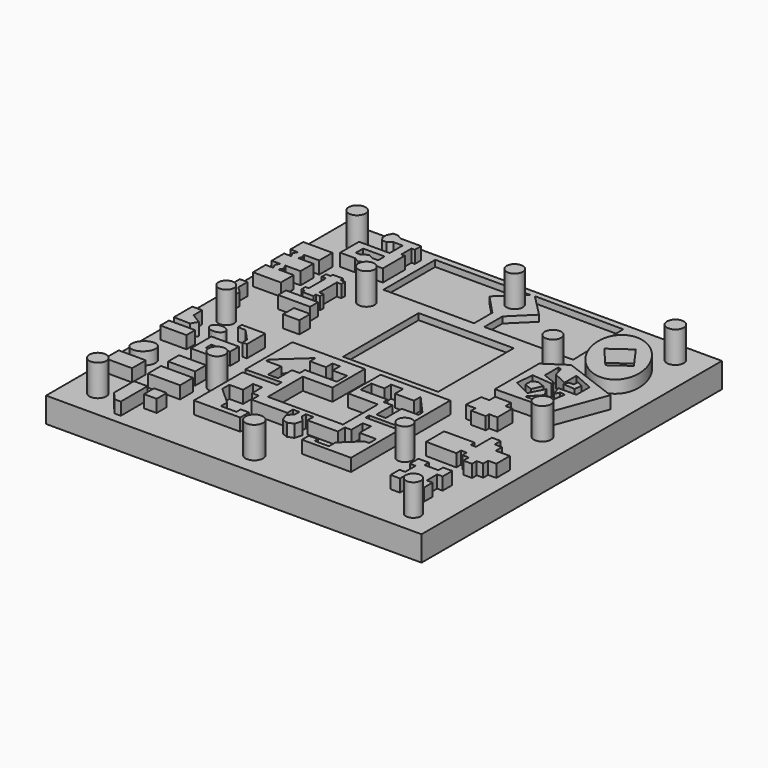
from build123d import *

# Parameters (mm, degrees)
F1_W      = 76.2
F1_H      = 76.2
F2_DEPTH  = 5.08
F3_R      = 1.645502
F3_R_2    = 1.645501
F3_R_3    = 1.581129
F3_R_4    = 1.722588
F3_R_5    = 1.672331
F3_R_6    = 1.716297
F3_R_7    = 1.736505
F3_R_8    = 1.523014
F3_R_9    = 1.778929
F3_R_10   = 1.681341
F3_R_11   = 1.715423
F3_R_12   = 1.523278
F4_DEPTH  = 6.35
F5_W      = 19.294421
F5_H      = 19.184167
F6_DEPTH  = 1.27
F8_DEPTH  = 2.54
F9_W      = 2.558722
F9_H      = 2.558721
F9_W_2    = 6.488184
F9_H_2    = 3.289784
F9_W_3    = 5.482968
F9_H_3    = 3.47255
F9_W_4    = 5.482972
F9_H_4    = 2.741486
F9_W_5    = 5.300205
F9_H_5    = 2.193189
F9_W_6    = 6.488182
F9_H_6    = 2.010423
F9_W_7    = 3.289783
F9_H_7    = 2.741487
F10_DEPTH = 2.54
F11_DEPTH = 2.54


with BuildPart() as f2:
    # F1 (on Top) → F2 (new body)
    with BuildSketch(Plane.XY):
        with Locations((-1.072027, 2.019377)):
            Rectangle(F1_W, F1_H)
    extrude(amount=-F2_DEPTH)

    # F3 (on face) → F4 (join)
    with BuildSketch(Plane.XY):
        with Locations((-0.735678, 34.744594)):
            Circle(F3_R)
        with Locations((-19.598031, 20.705491)):
            Circle(F3_R_2)
        with Locations((-32.948099, 1.843139)):
            Circle(F3_R_3)
        with Locations((-32.775838, 34.830723)):
            Circle(F3_R_4)
        with Locations((18.126678, 20.877751)):
            Circle(F3_R_5)
        with Locations((31.093566, 35.743695)):
            Circle(F3_R_6)
        with Locations((31.042574, 2.075319)):
            Circle(F3_R_7)
        with Locations((18.543921, -17.198307)):
            Circle(F3_R_8)
        with Locations((-0.612898, -31.452265)):
            Circle(F3_R_9)
        with Locations((-19.852089, -16.866596)):
            Circle(F3_R_10)
        with Locations((-33.257011, -30.340977)):
            Circle(F3_R_11)
        with Locations((31.557404, -31.310048)):
            Circle(F3_R_12)
    extrude(amount=F4_DEPTH)

    # F5 (on face) → F6 (cut)
    with BuildSketch(Plane.XY):
        with Locations((-1.099397, 13.321314)):
            Rectangle(F5_W, F5_H)
        Polygon((-20.118184, 38.826754), (-20.118184, 25.669744), (-1.705794, 25.669744), (-1.705794, 30.300405), (-5.573706, 34.400459), (-0.881755, 38.826754), align=None)
        Polygon((0, 38.952216), (4.489775, 34.400459), (0.33312, 30.300405), (0.33312, 25.693363), (18.37535, 25.693363), (18.042877, 38.826754), align=None)
    extrude(amount=-F6_DEPTH, mode=Mode.SUBTRACT)

    # F7 (on face) → F8 (join)
    with BuildSketch(Plane.XY):
        Polygon((-17.080911, -1.195494), (-17.080911, -13.149373), (-9.789782, -13.039665), (-9.789782, -14.179086), (-16.789086, -14.179086), (-16.789086, -26.549948), (-7.402423, -26.549948), (-7.402423, -24.325363), (-9.084426, -24.325363), (-9.084426, -25.410527), (-12.231399, -25.410527), (-12.231399, -23.837039), (-15.758181, -20.635808), (-15.758181, -18.845288), (-12.991014, -18.845288), (-12.991014, -16.295156), (-11.146236, -16.295156), (-11.146236, -18.845288), (-9.789782, -18.845288), (-9.789782, -20.635808), (-2.574782, -20.635808), (-2.574782, -19.200541), (-1.270327, -19.200541), (-1.270327, -20.198064), (-2.247898, -21.395423), (-1.705316, -22.860393), (-0.541367, -23.305736), (0.647988, -22.845341), (1.070018, -21.310689), (0, -20.159699), (0, -19.162174), (1.530414, -19.162174), (1.495916, -20.631954), (7.681346, -20.631954), (7.681346, -18.845288), (8.983542, -18.845288), (8.983542, -15.969606), (10.665544, -15.969606), (10.665544, -18.845288), (14.035678, -18.845288), (14.035678, -20.631954), (13.123169, -20.631954), (9.746881, -23.82574), (9.746881, -25.468258), (6.826849, -25.468258), (6.826849, -24.646997), (5.001829, -24.646997), (5.001829, -26.380766), (14.948188, -26.380766), (14.948188, -14.153135), (8.104363, -14.153135), (8.104363, -13.240624), (14.948188, -13.240624), (14.948188, -1.195494), (0.804283, -1.195494), (0.804283, -9.408083), (6.826849, -9.408083), (6.826849, -18.259428), (-8.412067, -18.259428), (-8.412067, -9.408083), (-2.389502, -9.408083), (-2.389502, -1.195494), align=None)
        Polygon((-11.146236, -12.280051), (-13.153789, -12.280051), (-13.262304, -8.807529), (-16.300762, -8.807529), (-16.300762, -8.210689), (-10.820687, -3.16468), (-10.820687, -4.575392), (-7.565198, -4.575392), (-7.565198, -2.947646), (-6.045969, -2.947646), (-6.045969, -4.792424), (-3.116028, -4.792424), (-3.116028, -7.396817), (-9.572749, -7.396817), (-9.572749, -8.753271), (-11.146236, -8.753271), align=None, mode=Mode.SUBTRACT)
        Polygon((8.820768, -12.280051), (8.820768, -8.210689), (7.03025, -8.210689), (7.03025, -7.179783), (1.550174, -7.179783), (1.550174, -4.466875), (4.208825, -4.466875), (4.208825, -2.784872), (6.650442, -2.784872), (6.650442, -4.846682), (10.502771, -4.846682), (10.502771, -3.16468), (14.083811, -7.179783), (14.083811, -8.210689), (10.719804, -8.210689), (10.719804, -12.280051), align=None, mode=Mode.SUBTRACT)
    extrude(amount=F8_DEPTH)

    # F9 (on face) → F10 (join)
    with BuildSketch(Plane.XY):
        with Locations((-23.032316, -28.52715)):
            Rectangle(F9_W, F9_H)
        with Locations((-24.997047, -22.221734)):
            Rectangle(F9_W_2, F9_H_2)
        with Locations((-34.089642, -22.313117)):
            Rectangle(F9_W_3, F9_H_3)
        with Locations((-25.591036, -17.287061)):
            Rectangle(F9_W_4, F9_H_4)
        with Locations((-34.363789, -8.697071)):
            Rectangle(F9_W_5, F9_H_5)
        with Locations((-25.72811, 11.041625)):
            Rectangle(F9_W_6, F9_H_6)
        with Locations((-22.575401, 6.746631)):
            Rectangle(F9_W_7, F9_H_7)
        Polygon((-28.332522, -27.339173), (-28.332522, -32.365233), (-26.870396, -34.101505), (-25.591036, -34.101505), (-25.591036, -27.339173), align=None)
        Polygon((-22.758167, -7.69186), (-28.332522, -7.69186), (-28.332522, -12.900683), (-22.758167, -12.900683), (-22.758167, -11.255791), (-26.596248, -11.255791), (-26.596248, -9.885048), (-22.758167, -9.885048), align=None)
        Polygon((-22.301253, -1.569209), (-27.053162, -1.569209), (-27.053162, -2.57442), (-25.499653, -2.57442), (-23.215082, -5.041758), (-23.215082, -6.229735), (-22.301253, -6.229735), align=None)
        Polygon((-37.105277, 10.493329), (-37.105277, 5.375888), (-35.369001, 5.193123), (-34.363791, 6.106951), (-34.363791, 7.02078), (-35.551768, 8.117375), (-35.551768, 10.493329), align=None)
        Polygon((-37.105277, -1.569209), (-37.105277, -6.229735), (-33.767723, -6.314437), (-32.993048, -5.041758), (-35.094853, -3.762397), (-35.094853, -1.569209), align=None)
        with BuildLine():
            add(Edge.make_bspline(
                [(-27.692841, -4.950374), (-27.692841, -3.047722), (-30.023105, -3.999048), (-32.35337, -4.950374), (-30.023105, -5.9017), (-27.692841, -6.853027), (-27.692841, -4.950374)],
                knots=[0, 0, 0, 2.094395, 2.094395, 4.18879, 4.18879, 6.283185, 6.283185, 6.283185], degree=2, weights=[1, 0.5, 1, 0.5, 1, 0.5, 1]))
        make_face()
        with BuildLine():
            add(Edge.make_bspline(
                [(-32.993048, -15.459402), (-35.072586, -13.257539), (-36.500154, -16.688734), (-37.927721, -20.119928), (-34.420616, -18.890597), (-30.91351, -17.661266), (-32.993048, -15.459402)],
                knots=[0, 0, 0, 2.094395, 2.094395, 4.18879, 4.18879, 6.283185, 6.283185, 6.283185], degree=2, weights=[1, 0.5, 1, 0.5, 1, 0.5, 1]))
        make_face()
        Polygon((-37.226394, 23.506001), (-35.713326, 23.427244), (-36.148015, 22.612195), (-35.658989, 21.742811), (-37.126075, 21.742811), (-37.126075, 18.59129), (-35.387304, 18.59129), (-35.876334, 17.721904), (-35.387304, 16.852519), (-36.963064, 16.852519), (-36.963064, 13.646661), (-31.312063, 13.646661), (-31.312063, 16.906856), (-34.409247, 16.906856), (-33.974554, 17.667567), (-34.409247, 18.645626), (-31.312063, 18.645626), (-31.312063, 21.905821), (-34.409247, 21.905821), (-34.111474, 22.616023), (-34.409247, 23.369081), (-31.304624, 23.369081), (-31.304624, 26.72361), (-37.226394, 26.72361), align=None)
        Polygon((-27.492307, 19.226126), (-26.624169, 19.226126), (-26.624169, 14.88544), (-27.309541, 14.88544), (-27.309541, 13.880229), (-26.601324, 13.880229), (-26.601324, 13.240549), (-24.38529, 13.240549), (-24.38529, 13.880229), (-23.539998, 13.880229), (-23.539998, 14.794057), (-24.408136, 14.794057), (-24.408136, 19.226126), (-23.494307, 19.226126), (-23.494307, 20.185646), (-24.476672, 20.185646), (-24.476672, 20.871017), (-26.532786, 20.871017), (-26.532786, 20.32272), (-27.492307, 20.32272), align=None)
        Polygon((-26.914816, 34.948926), (-26.064267, 35.623498), (-24.157867, 35.623498), (-24.157867, 32.309294), (-30.375669, 32.309294), (-30.375669, 27.528627), (-27.325425, 27.528627), (-26.240243, 26.97137), (-25.096403, 27.528627), (-21.723539, 27.528627), (-21.723539, 33.101186), (-22.427442, 33.101186), (-22.427442, 35.682157), (-21.752868, 35.682157), (-21.752868, 37.295267), (-25.888292, 37.295267), (-26.944146, 37.881851), (-27.882682, 37.881851), (-28.410608, 36.79667), (-28.410608, 35.858136), (-27.853353, 34.948926), align=None)
        Polygon((-27.325425, 29.024418), (-28.410608, 29.024418), (-28.410608, 30.90149), (-24.04055, 30.90149), (-24.04055, 29.229723), (-25.125733, 29.229723), (-26.240243, 29.78698), (-27.325425, 29.229723), align=None, mode=Mode.SUBTRACT)
        Polygon((23.491831, -19.956527), (23.491831, -22.148918), (24.669718, -22.150023), (24.669718, -24.79125), (23.520006, -24.79125), (23.520006, -27.059598), (25.446549, -27.059598), (25.446549, -25.84774), (28.424714, -25.84774), (28.424714, -27.152818), (30.356124, -27.152818), (30.356124, -24.946615), (29.175339, -24.946615), (29.175339, -22.305388), (30.293977, -22.305388), (30.293977, -19.878227), (28.424714, -19.878227), (28.424714, -21.052722), (25.605924, -21.052722), (25.605924, -19.956527), align=None)
        Polygon((20.805748, -10.071781), (20.805748, -14.641981), (27.001884, -14.72987), (27.001884, -13.543376), (28.144434, -13.543376), (28.144434, -14.641981), (29.46276, -14.641981), (29.46276, -16.004251), (31.220529, -16.004251), (31.220529, -14.817758), (32.538857, -14.817758), (32.538857, -13.587319), (34.208737, -13.587319), (34.208737, -10.15967), (31.35236, -10.15967), (31.35236, -8.577678), (29.858258, -8.577678), (29.858258, -7.03963), (28.056545, -7.03963), (28.056545, -11.082498), (27.001884, -11.082498), (27.001884, -10.071781), align=None)
        Polygon((19.721936, 2.74569), (18.04621, 2.76946), (17.766867, -0.768894), (19.724193, -0.768894), (19.724193, -1.844045), (22.700956, -1.886269), (22.700956, -1.024435), (24.379041, -1.048238), (24.379041, 2.749624), (22.980627, 2.76946), (22.980627, 4.21307), (19.721936, 4.259293), align=None)
        Polygon((18.04621, 6.252534), (26.402766, 6.400344), (29.580686, 5.217863), (33.622466, 16.080157), (22.292168, 20.296077), (18.04621, 17.486107), align=None)
        Polygon((21.903963, 18.158667), (22.492524, 16.171899), (25.257885, 14.920902), (25.257885, 17.949631), (29.340087, 16.171899), (29.340087, 12.81396), (25.652938, 12.81396), (26.402766, 10.838701), (26.814218, 11.852651), (27.873209, 11.692803), (27.52869, 9.410373), (25.455412, 7.283237), (23.282627, 7.283237), (25.455412, 9.587705), (24.40194, 11.365437), (22.887576, 8.40255), (19.403805, 10.183143), (19.724193, 13.735747), (23.835305, 13.36499), (23.835305, 13.933273), (21.241527, 14.920902), (21.241527, 18.410902), align=None, mode=Mode.SUBTRACT)
        with BuildLine():
            add(Edge.make_bspline(
                [(30.493068, 20.469293), (38.252804, 25.154416), (28.40687, 32.693152), (18.560937, 40.231887), (20.647134, 28.008029), (22.733331, 15.78417), (30.493068, 20.469293)],
                knots=[0, 0, 0, 2.094395, 2.094395, 4.18879, 4.18879, 6.283185, 6.283185, 6.283185], degree=2, weights=[1, 0.5, 1, 0.5, 1, 0.5, 1]))
        make_face()
        Polygon((30.261872, 26.245717), (26.574723, 23.612039), (22.896474, 27.945151), (26.969776, 30.854652), align=None, mode=Mode.SUBTRACT)
    extrude(amount=F10_DEPTH)

    # F9 (on face) → F11 (join)
    with BuildSketch(Plane.XY):
        Polygon((20.814102, 10.523175), (22.492524, 9.884085), (23.378889, 11.867189), (21.801081, 12.467969), (20.814102, 11.865063), align=None)
        Polygon((25.808057, 15.332023), (25.455412, 14.405882), (27.873209, 14.190558), (28.045468, 15.740888), (26.839655, 16.343795), (26.796591, 15.332023), align=None)
    extrude(amount=F11_DEPTH)


solid = f2.part
